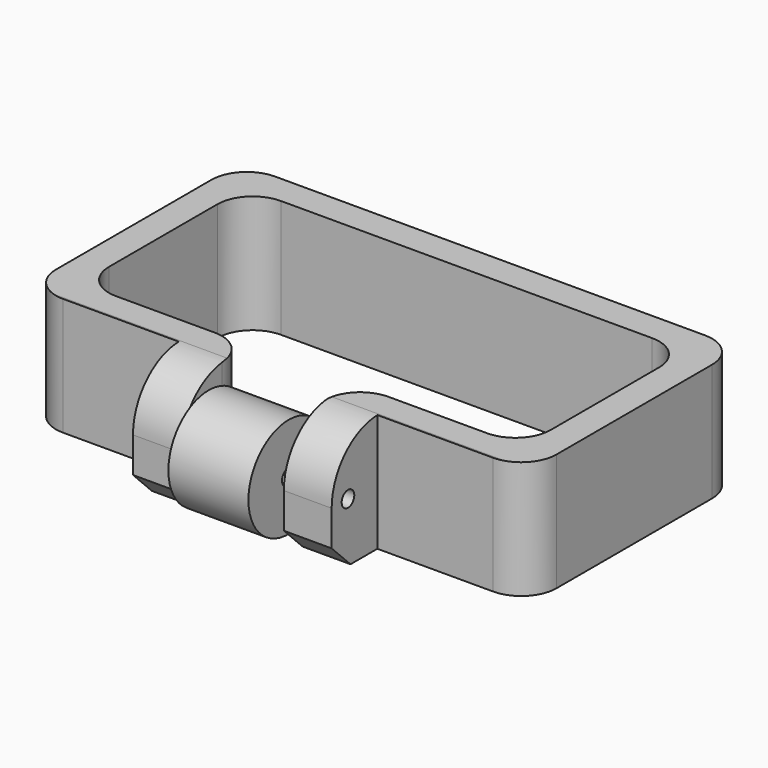
from build123d import *

# Parameters (mm, degrees)
F0_W     = 10.3086968884
F0_H     = 12.3161332488
F1_DEPTH = 25.4
F0_W_2   = 17.2582492232
F0_H_2   = 10.8475995182
F5_D     = 3.6
F6_D     = 3.4
F6_DEPTH = 62.6051246116
F7_D     = 3.4
F8_R     = 12.7
F9_R     = 7.62
F10_SIZE = 5.08


with BuildPart() as f1:
    # F0 (on Top) → F1 (new body)
    with BuildSketch(Plane.XY):
        Polygon((21.42043598, -28.575), (53.975, -28.575), (53.975, 28.575), (-53.975, 28.575), (-53.975, -28.575), (-21.42043598, -28.575), (-11.1117390916, -28.575), (-11.1117390916, -22.225), (-47.625, -22.225), (-47.625, 22.225), (47.625, 22.225), (47.625, -22.225), (11.1117390916, -22.225), (11.1117390916, -28.575), align=None)
        with Locations((-16.2660875358, -34.7330666244)):
            Rectangle(F0_W, F0_H)
        with Locations((16.2660875358, -34.7330666244)):
            Rectangle(F0_W, F0_H)
    extrude(amount=F1_DEPTH)

    # F6 (through all, one way)
    with BuildSketch(Plane.YZ.offset(8.6291246116)):
        with Locations((-36.4898145199, 12.7)):
            Circle(F6_D / 2)
    extrude(amount=-F6_DEPTH, mode=Mode.SUBTRACT)

    # F7 (through all)
    with Locations(Plane(origin=(8.6291246116, 0, 0), x_dir=(0, 1, 0), z_dir=(-1, 0, 0))):
        with Locations((-36.4898145199, -12.7)):
            Hole(F7_D / 2)

    # F8
    f8_edges = [f1.edges().sort_by_distance(p)[0] for p in [
        (16.266088, -40.891133, 25.4),
        (-16.266088, -40.891133, 25.4),
    ]]
    fillet(f8_edges, radius=F8_R)

    # F9
    f9_edges = [f1.edges().sort_by_distance(p)[0] for p in [
        (-53.975, -28.575, 12.697099),
        (-53.975, 28.575, 12.7),
        (47.625, 22.225, 12.7),
        (53.975, 28.575, 12.7),
        (53.975, -28.575, 12.697099),
        (47.625, -22.225, 12.7),
        (-47.625, -22.225, 12.7),
        (-47.625, 22.225, 12.7),
        (-11.111739, -22.225, 12.7),
        (11.111739, -22.225, 12.7),
    ]]
    fillet(f9_edges, radius=F9_R)

    # F10
    f10_edges = [f1.edges().sort_by_distance(p)[0] for p in [
        (-16.266088, -40.891133, 0),
        (16.266088, -40.891133, 0),
    ]]
    chamfer(f10_edges, length=F10_SIZE)


with BuildPart() as f2:
    # F0 (on Top) → F2 (revolve)
    with BuildSketch(Plane.XY):
        with Locations((0, -41.913614279)):
            Rectangle(F0_W_2, F0_H_2)
    revolve(axis=Axis((0, -36.4898145199, 0), (1, 0, 0)))


with BuildPart() as f2_1:
    # F3: moved
    add(f2.part.moved(Location((0, 0, 12.7))))

    # F5 (through all)
    with Locations(Plane.YZ.offset(8.6291246116)):
        with Locations((-36.4898145199, 12.7)):
            Hole(F5_D / 2)


solid = Compound([f1.part, f2_1.part])
